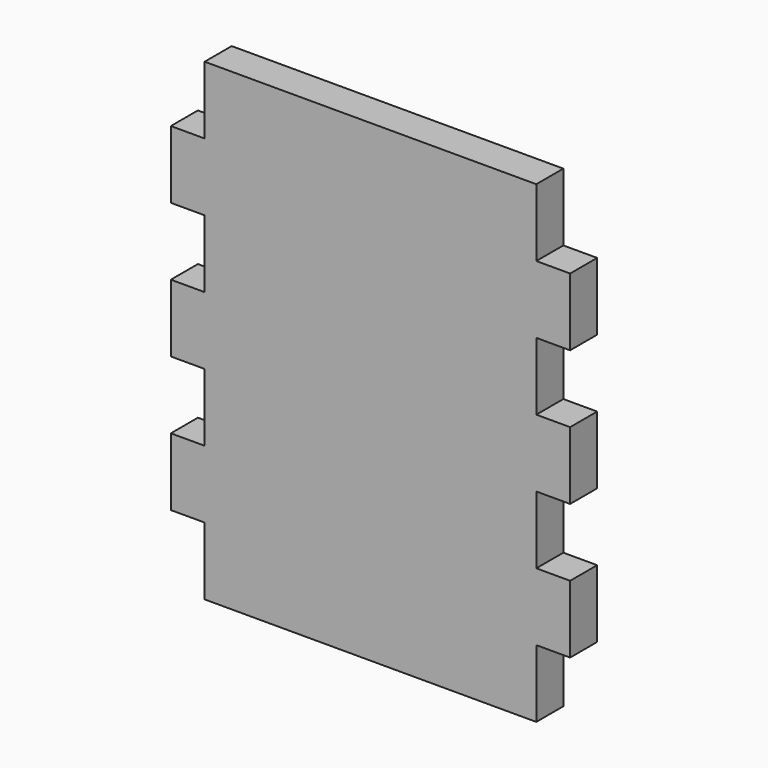
from build123d import *

# Parameters (mm, degrees)
F1_DEPTH = 5


with BuildPart() as f1:
    # F0 (on Front) → F1 (new body)
    with BuildSketch(Plane.XZ):
        Polygon((0, 0), (0, 70), (-24.521741, 70), (-24.521741, 60), (-29.521741, 60), (-29.521741, 50), (-24.521741, 50), (-24.521741, 40), (-29.521741, 40), (-29.521741, 30), (-24.521741, 30), (-24.521741, 20), (-29.521741, 20), (-29.521741, 10), (-24.521741, 10), (-24.521741, 0), align=None)
        Polygon((24.521741, 70), (0, 70), (0, 0), (24.521741, 0), (24.521741, 10), (29.521741, 10), (29.521741, 20), (24.521741, 20), (24.521741, 30), (29.521741, 30), (29.521741, 40), (24.521741, 40), (24.521741, 50), (29.521741, 50), (29.521741, 60), (24.521741, 60), align=None)
    extrude(amount=F1_DEPTH)


solid = f1.part
